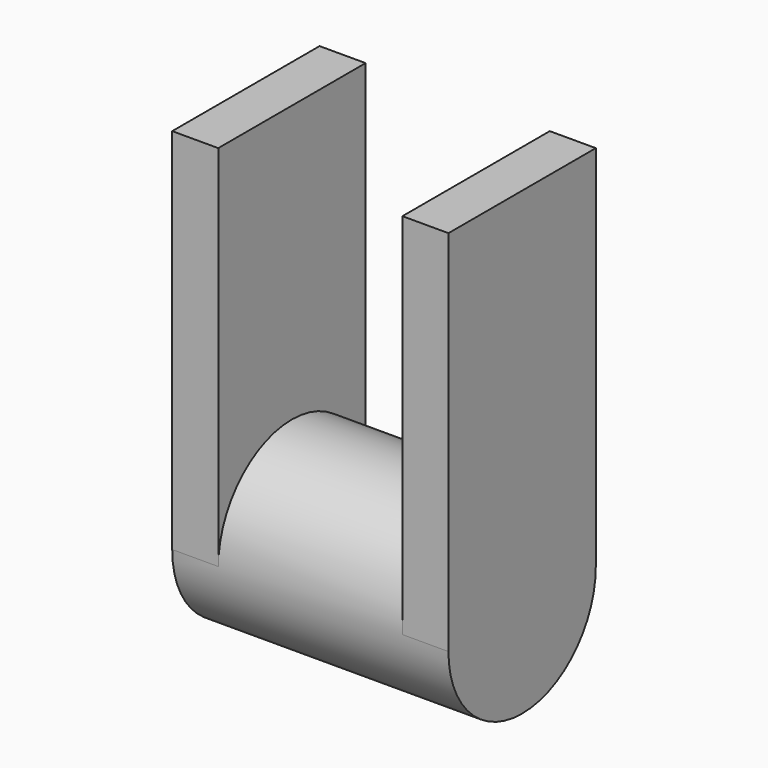
from build123d import *

# Parameters (mm, degrees)
F1_DEPTH = 19.05
F2_DEPTH = 3.175
F3_W     = 12.7
F3_H     = 25.4
F4_DEPTH = 3.175


with BuildPart() as f1:
    # F0 (on Right) → F1 (new body)
    with BuildSketch(Plane.YZ):
        with BuildLine():
            ThreePointArc((-6.35, 0), (0, -6.35), (6.35, 0))
            ThreePointArc((6.35, 0), (0, 6.35), (-6.35, 0))
        make_face()
    extrude(amount=F1_DEPTH)

    # F0 (on Right) → F2 (join)
    with BuildSketch(Plane.YZ):
        with BuildLine():
            ThreePointArc((-6.35, 0), (0, -6.35), (6.35, 0))
            ThreePointArc((6.35, 0), (0, 6.35), (-6.35, 0))
        make_face()
        with BuildLine():
            ThreePointArc((-6.35, 0), (0, 6.35), (6.35, 0))
            Line((6.35, 0), (6.35, 25.4))
            Line((6.35, 25.4), (-6.35, 25.4))
            Line((-6.35, 25.4), (-6.35, 0))
        make_face()
    extrude(amount=F2_DEPTH)

    # F3 (on face) → F4 (join)
    with BuildSketch(Plane.YZ.offset(19.05)):
        with Locations((0, 12.7)):
            Rectangle(F3_W, F3_H)
    extrude(amount=-F4_DEPTH)


solid = f1.part
